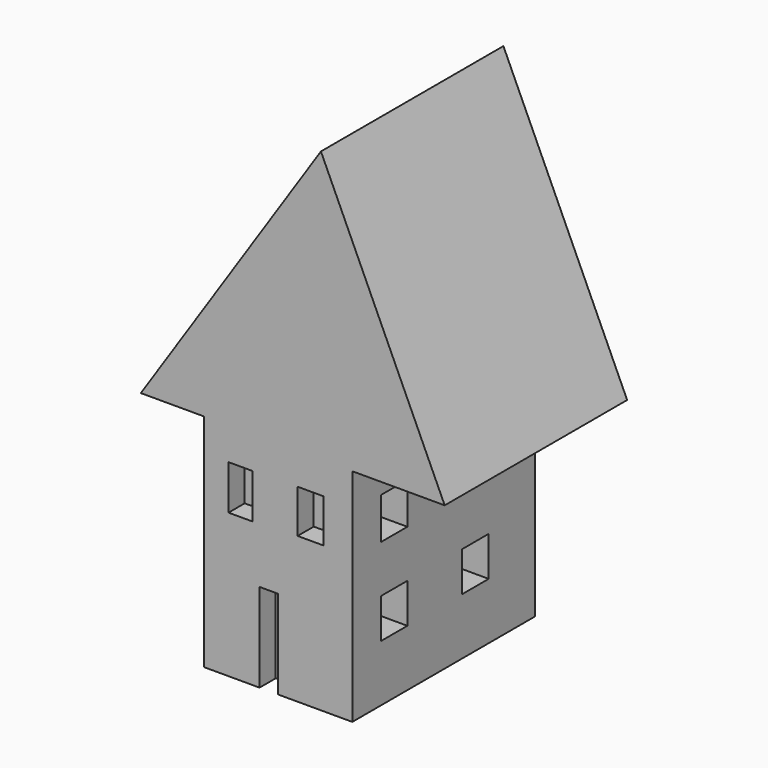
from build123d import *

# Parameters (mm, degrees)
F0_W     = 47.9057580233
F0_H     = 73.8517567515
F1_DEPTH = 76.2
F3_DEPTH = 73.7290531397
F4_W     = 7.8228898346
F4_H     = 14.375641942
F4_W_2   = 8.3178766072
F4_H_2   = 14.0072628856
F4_W_3   = 6.03377074
F4_H_3   = 28.6656171083
F5_DEPTH = 6.5299868584
F6_W     = 10.6063969433
F6_H     = 13.3831351995
F6_H_2   = 12.8184799105
F6_W_2   = 10.7133537531
F7_DEPTH = 25.4


with BuildPart() as f1:
    # F0 (on Top) → F1 (new body)
    with BuildSketch(Plane.XY):
        with Locations((23.9528790116, 14.6708004177)):
            Rectangle(F0_W, F0_H)
    extrude(amount=F1_DEPTH)

    # F2 (on face) → F3 (join)
    with BuildSketch(Plane.XZ.offset(22.2550779581)):
        Polygon((37.7622656524, 159.051656723), (-20.4486101866, 71.3405758142), (0, 71.3405758142), (0, 76.2), (47.9057580233, 76.2), (47.9057580233, 71.3405758142), (77.7672529221, 71.3405758142), align=None)
    extrude(amount=-F3_DEPTH)

    # F4 (on face) → F5 (cut)
    with BuildSketch(Plane.XZ.offset(22.2550779581)):
        with Locations((11.8029844016, 53.7293627858)):
            Rectangle(F4_W, F4_H)
        with Locations((34.3761388212, 54.1785098612)):
            Rectangle(F4_W_2, F4_H_2)
        with Locations((20.9359936416, 14.3328085542)):
            Rectangle(F4_W_3, F4_H_3)
    extrude(amount=-F5_DEPTH, mode=Mode.SUBTRACT)

    # F6 (on face) → F7 (cut)
    with BuildSketch(Plane.YZ.offset(47.9057580233)):
        with Locations((-5.3031984717, 53.1773492694)):
            Rectangle(F6_W, F6_H)
        with Locations((-5.3031984717, 24.7165327892)):
            Rectangle(F6_W, F6_H_2)
        with Locations((27.5034122169, 24.7165327892)):
            Rectangle(F6_W_2, F6_H_2)
        with Locations((27.5034122169, 53.1773492694)):
            Rectangle(F6_W_2, F6_H)
    extrude(amount=-F7_DEPTH, mode=Mode.SUBTRACT)


solid = f1.part
